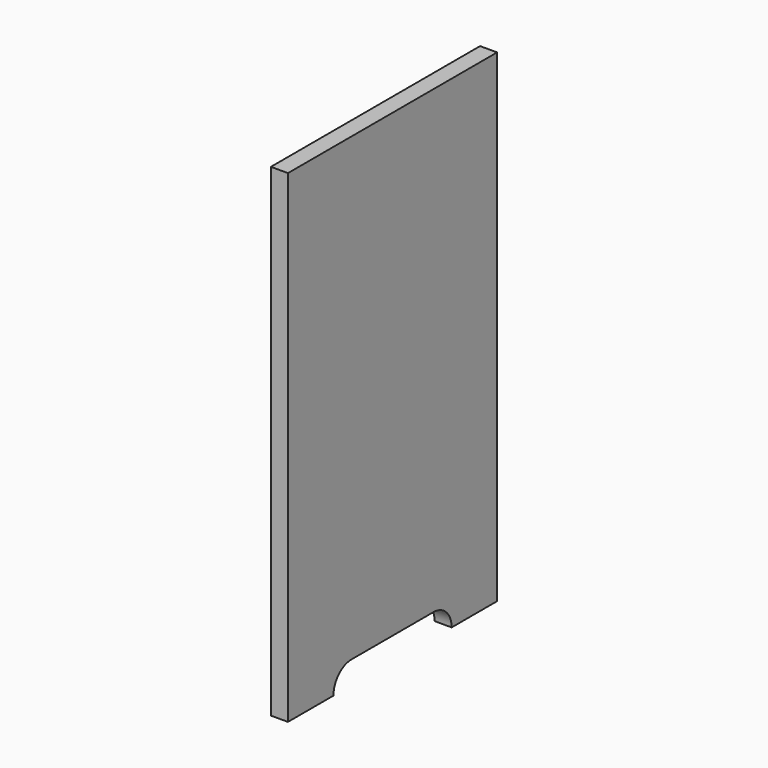
from build123d import *

# Parameters (mm, degrees)
F0_W     = 292.1
F0_H     = 539.75
F1_DEPTH = 19.05
F3_DEPTH = 19.05


with BuildPart() as f1:
    # F0 (on Right) → F1 (new body)
    with BuildSketch(Plane.YZ):
        with Locations((146.05, 269.875)):
            Rectangle(F0_W, F0_H)
    extrude(amount=F1_DEPTH)

    # F2 (on face) → F3 (cut)
    with BuildSketch(Plane.YZ.offset(19.05)):
        with BuildLine():
            Line((146.05, 25.4), (88.9, 25.4))
            ThreePointArc((88.9, 25.4), (70.939488, 17.960512), (63.5, 0))
            Line((63.5, 0), (228.6, 0))
            ThreePointArc((228.6, 0), (221.160512, 17.960512), (203.2, 25.4))
            Line((203.2, 25.4), (146.05, 25.4))
        make_face()
    extrude(amount=-F3_DEPTH, mode=Mode.SUBTRACT)


solid = f1.part
